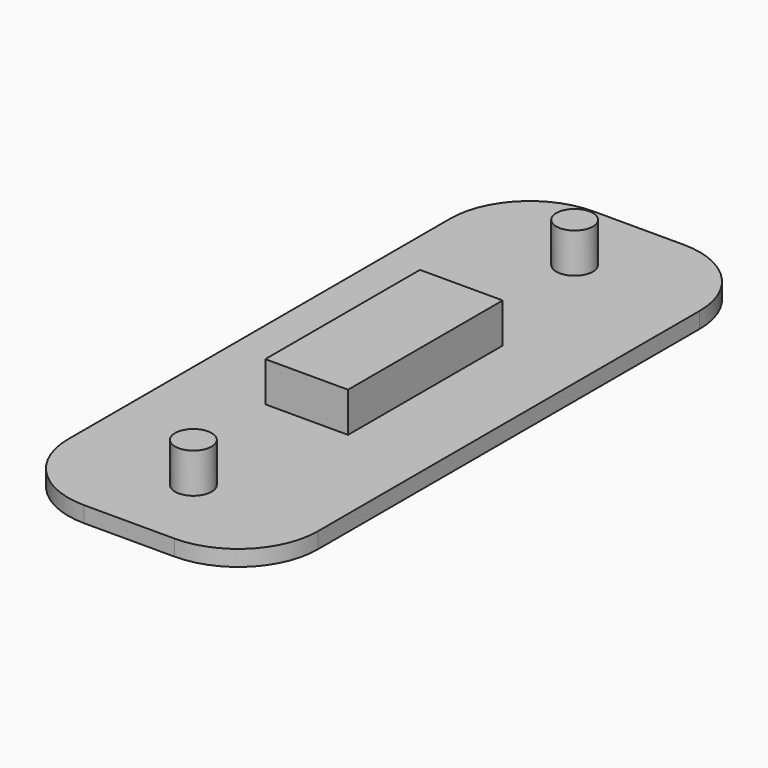
from build123d import *

# Parameters (mm, degrees)
F0_W     = 31.366382
F0_H     = 80
F1_DEPTH = 2
F2_W     = 10.4
F2_H     = 24.3
F2_R     = 2.3
F3_DEPTH = 5
F4_R     = 10


with BuildPart() as f1:
    # F0 (on Top) → F1 (new body)
    with BuildSketch(Plane.XY):
        Rectangle(F0_W, F0_H)
    extrude(amount=F1_DEPTH)

    # F2 (on face) → F3 (join)
    with BuildSketch(Plane.XY.offset(2)):
        Rectangle(F2_W, F2_H)
        with Locations((0, 29.95)):
            Circle(F2_R)
        with Locations((0, -29.95)):
            Circle(F2_R)
    extrude(amount=F3_DEPTH)

    # F4
    f4_edges = [f1.edges().sort_by_distance(p)[0] for p in [
        (-15.683191, 40, 1),
        (15.683191, 40, 1),
        (15.683191, -40, 1),
        (-15.683191, -40, 1),
    ]]
    fillet(f4_edges, radius=F4_R)


solid = f1.part
